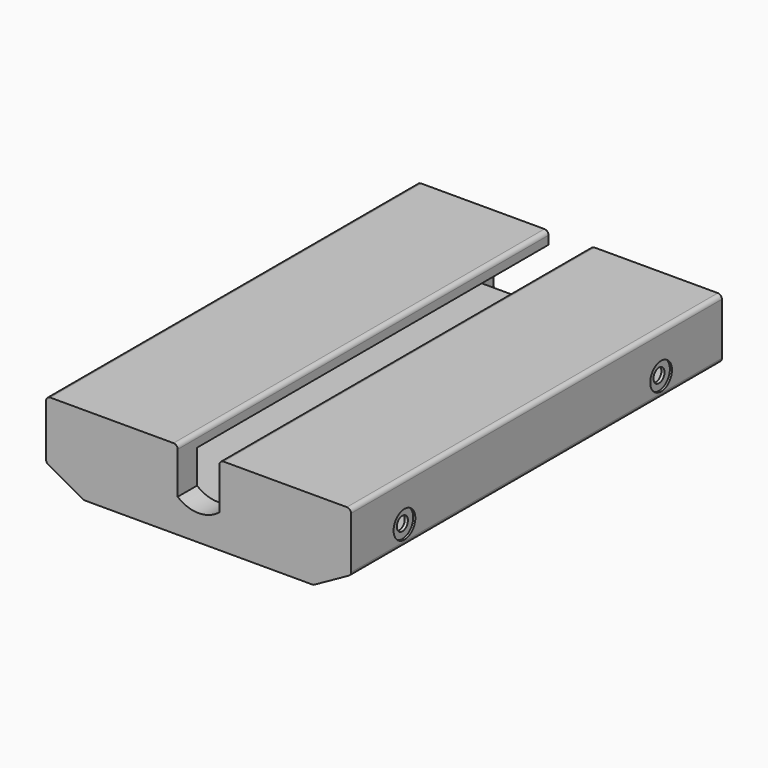
from build123d import *

# Parameters (mm, degrees)
F1_DEPTH       = 111
F2_W           = 70.5
F2_H           = 10
F3_DEPTH       = 105.2
F5_DEPTH       = 150
F7_D           = 3.3
F7_DEPTH       = 5
F7_CBORE_D     = 6.5
F7_CBORE_DEPTH = 0.5
F7_TIP         = 0.9914200214
F9_D           = 3.3
F9_DEPTH       = 5
F9_CBORE_D     = 6.5
F9_CBORE_DEPTH = 0.5
F9_TIP         = 0.9914200214
F11_START      = 25
F11_DEPTH      = 25
F12_R          = 1
F14_DEPTH      = 5


with BuildPart() as f1:
    # F0 (on Front) → F1 (new body)
    with BuildSketch(Plane.XZ):
        Polygon((73, 19), (0, 19), (0, 5), (9, 0), (64, 0), (73, 5), align=None)
    extrude(amount=F1_DEPTH)

    # F2 (on Front) → F3 (cut)
    with BuildSketch(Plane.XZ):
        with Locations((36.5, 11)):
            Rectangle(F2_W, F2_H)
    extrude(amount=F3_DEPTH, mode=Mode.SUBTRACT)

    # F4 (on Front) → F5 (cut)
    with BuildSketch(Plane.XZ):
        with BuildLine():
            Line((41.5, 19), (31.5, 19))
            Line((31.5, 19), (31.5, 8))
            ThreePointArc((31.5, 8), (36.5, 6.1897503241), (41.5, 8))
            Line((41.5, 8), (41.5, 19))
        make_face()
    extrude(amount=F5_DEPTH, mode=Mode.SUBTRACT)

    # F7
    with Locations(Plane(origin=(0, 0, 0), x_dir=(0, 1, 0), z_dir=(-1, 0, 0))):
        with Locations((-95, -9.2), (-18.2, -9.2)):
            CounterBoreHole(F7_D / 2, F7_CBORE_D / 2, F7_CBORE_DEPTH, depth=F7_DEPTH)
            with Locations((0, 0, -(F7_DEPTH + F7_TIP / 2))):  # 118° drill point
                Cone(0, F7_D / 2, F7_TIP, mode=Mode.SUBTRACT)

    # F9
    with Locations(Plane.YZ.offset(73)):
        with Locations((-95, 9.2), (-18.2, 9.2)):
            CounterBoreHole(F9_D / 2, F9_CBORE_D / 2, F9_CBORE_DEPTH, depth=F9_DEPTH)
            with Locations((0, 0, -(F9_DEPTH + F9_TIP / 2))):  # 118° drill point
                Cone(0, F9_D / 2, F9_TIP, mode=Mode.SUBTRACT)

    # F10 (on Right) → F11 (cut)
    with BuildSketch(Plane.YZ.offset(F11_START)):
        with BuildLine():
            Line((-99.916331174, 4.5), (-105.1256978151, 4.5))
            ThreePointArc((-105.1256978151, 4.5), (-105.7839048332, 4.2528369819), (-106.1167429851, 3.6335270426))
            Line((-106.1167429851, 3.6335270426), (-106.6063010141, 0))
            Line((-106.6063010141, 0), (-104.1063010141, 0))
            Line((-104.1063010141, 0), (-104.1063010141, 1.5))
            ThreePointArc((-104.1063010141, 1.5), (-103.8134077953, 2.2071067812), (-103.1063010141, 2.5))
            Line((-103.1063010141, 2.5), (-102.1063010141, 2.5))
            ThreePointArc((-102.1063010141, 2.5), (-101.3991942329, 2.2071067812), (-101.1063010141, 1.5))
            Line((-101.1063010141, 1.5), (-101.1063010141, 0))
            Line((-101.1063010141, 0), (-98.6063010141, 0))
            Line((-98.6063010141, 0), (-98.9201364759, 3.5871557427))
            ThreePointArc((-98.9201364759, 3.5871557427), (-99.2407409664, 4.2372773368), (-99.916331174, 4.5))
        make_face()
    extrude(amount=F11_DEPTH, mode=Mode.SUBTRACT)

    # F12
    f12_edges = [f1.edges().sort_by_distance(p)[0] for p in [
        (73, -55.5, 19),
        (0, -55.5, 19),
        (31.5, -55.5, 19),
        (41.5, -55.5, 19),
        (9, -55.5, 0),
        (64, -55.5, 0),
        (73, -55.5, 5),
        (0, -55.5, 5),
    ]]
    fillet(f12_edges, radius=F12_R)

    # F13 (on face) → F14 (cut)
    with BuildSketch(Plane(origin=(0, 0, 0), x_dir=(-1, 0, 0), z_dir=(0, 1, 0))):
        with BuildLine():
            Line((-18.35, 6), (-65.35, 6))
            Line((-65.35, 6), (-65.35, 3.2))
            ThreePointArc((-65.35, 3.2), (-65.0571067812, 2.4928932188), (-64.35, 2.2))
            Line((-64.35, 2.2), (-19.35, 2.2))
            ThreePointArc((-19.35, 2.2), (-18.6428932188, 2.4928932188), (-18.35, 3.2))
            Line((-18.35, 3.2), (-18.35, 6))
        make_face()
    extrude(amount=-F14_DEPTH, mode=Mode.SUBTRACT)


solid = f1.part
